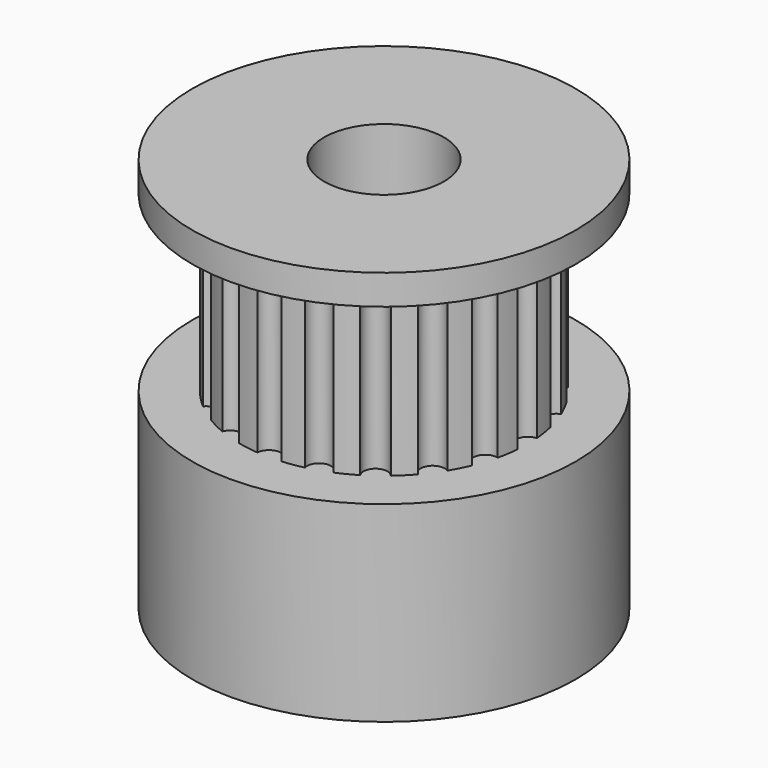
from build123d import *

# Parameters (mm, degrees)
SKETCH025_R              = 8
PAD014_DEPTH             = 8
SKETCH026_R              = 6
PAD015_DEPTH             = 7.25
SKETCH027_R              = 0.5
POCKET008_DEPTH          = 7.25
POLARPATTERN_COUNT       = 20
SKETCH028_R              = 8
PAD016_DEPTH             = 1.25
SKETCH029_R              = 2.5
POCKET009_DEPTH          = 16.5
CLONE007_PLACEMENT_ANGLE = 180


with BuildPart() as part:
    # Sketch025 → Pad014 (new body)
    with BuildSketch(Plane(origin=(20, -80, 0), x_dir=(1, 0, 0), z_dir=(0, 0, -1))):
        Circle(SKETCH025_R)
    extrude(amount=PAD014_DEPTH)

    # Sketch026 → Pad015 (new body)
    with BuildSketch(Plane(origin=(20, -80, -8), x_dir=(1, 0, 0), z_dir=(0, 0, -1))):
        Circle(SKETCH026_R)
    extrude(amount=PAD015_DEPTH)

    # Sketch027 → Pocket008 (cut)
    with BuildSketch(Plane(origin=(20, -80, -15.25), x_dir=(1, 0, 0), z_dir=(0, 0, -1))):
        with Locations((6, 0)):
            Circle(SKETCH027_R)
    pocket008 = extrude(amount=-POCKET008_DEPTH, mode=Mode.SUBTRACT)

    # PolarPattern: Pocket008 ×20 about axis
    polarpattern_axis = Axis((20, -80, -15.25), (0, 0, -1))
    for i in range(1, POLARPATTERN_COUNT):
        add(pocket008.rotate(polarpattern_axis, i * 360 / POLARPATTERN_COUNT), mode=Mode.SUBTRACT)

    # Sketch028 → Pad016 (new body)
    with BuildSketch(Plane(origin=(20, -80, -15.25), x_dir=(1, 0, 0), z_dir=(0, 0, -1))):
        Circle(SKETCH028_R)
    extrude(amount=PAD016_DEPTH)

    # Sketch029 → Pocket009 (cut)
    with BuildSketch(Plane(origin=(20, -80, -16.5), x_dir=(1, 0, 0), z_dir=(0, 0, -1))):
        Circle(SKETCH029_R)
    extrude(amount=-POCKET009_DEPTH, mode=Mode.SUBTRACT)


with BuildPart() as part_1:
    # Clone007 placement: moved
    add(part.part.moved(Location((34, 192, -13))).rotate(Axis((34, 192, -13), (0, -1, 0)), CLONE007_PLACEMENT_ANGLE))


solid = part_1.part
